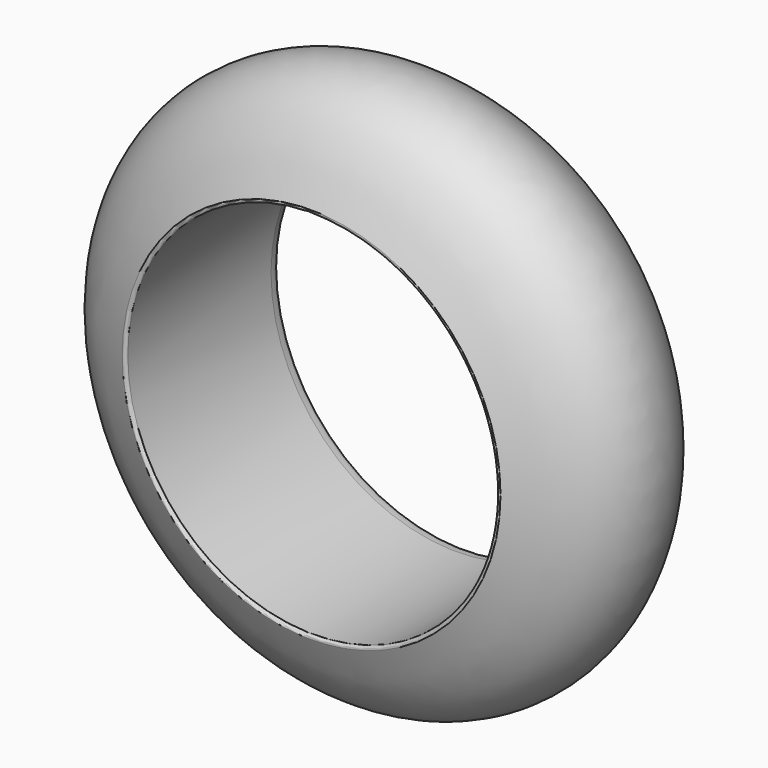
from build123d import *


with BuildPart() as f1:
    # F0 (on Top) → F1 (revolve)
    with BuildSketch(Plane.XY):
        with BuildLine():
            ThreePointArc((-0.234982521, -5.9463885618), (-0.0755199189, -5.9306262335), (0, -5.7892985495))
            Line((0, -5.7892985495), (0, 5.7892985495))
            add(Edge.make_bspline(
                [(0, 5.7892985495), (0, 7.9972603805), (-6.9767969589, 2.4192232279), (-5.5985147582, -3.6597134655), (-2.433511646, -5.0369356764), (-0.234982521, -5.9463885618)],
                knots=[0, 0, 0, 0, 0.3333157002, 0.6666842998, 0.9886467745, 0.9886467745, 0.9886467745, 0.9886467745], degree=3))
        make_face()
    revolve(axis=Axis((12, 3.1463371124, 0), (0, 1, 0)))


solid = f1.part
